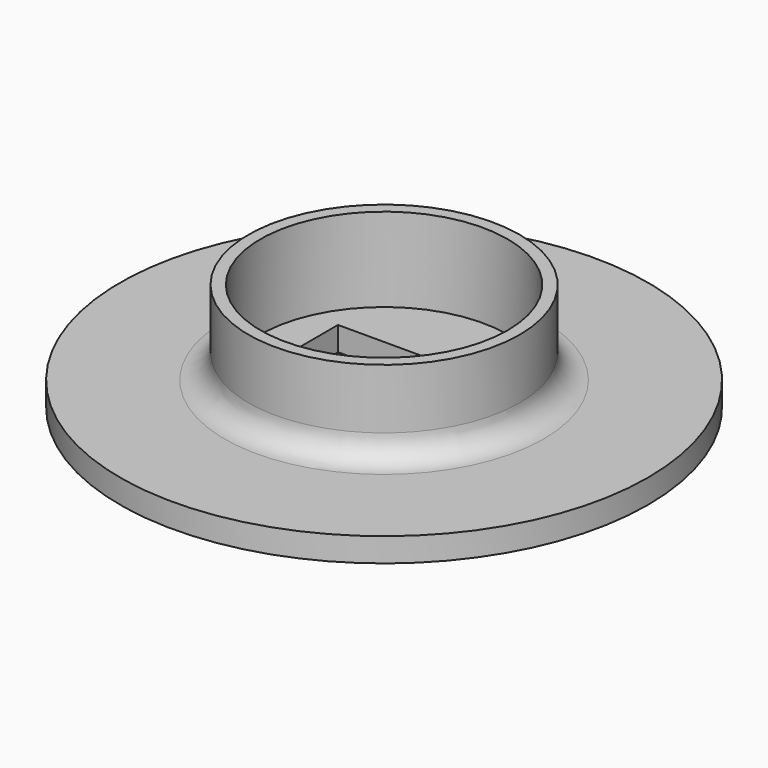
from build123d import *

# Parameters (mm, degrees)
F1_R     = 11
F1_W     = 7.2
F1_H     = 4.2
F2_DEPTH = 1
F0_R     = 5.65
F0_R_2   = 5.15
F3_DEPTH = 4.5
F4_R     = 1


with BuildPart() as f2:
    # F1 (on Top) → F2 (new body)
    with BuildSketch(Plane.XY):
        Circle(F1_R)
        Rectangle(F1_W, F1_H, mode=Mode.SUBTRACT)
    extrude(amount=F2_DEPTH)

    # F0 (on Top) → F3 (join)
    with BuildSketch(Plane.XY):
        Circle(F0_R)
        Circle(F0_R_2, mode=Mode.SUBTRACT)
    extrude(amount=F3_DEPTH)

    # F4
    f4_edges = [f2.edges().sort_by_distance(p)[0] for p in [
        (-5.65, 0, 1),
    ]]
    fillet(f4_edges, radius=F4_R)


solid = f2.part
